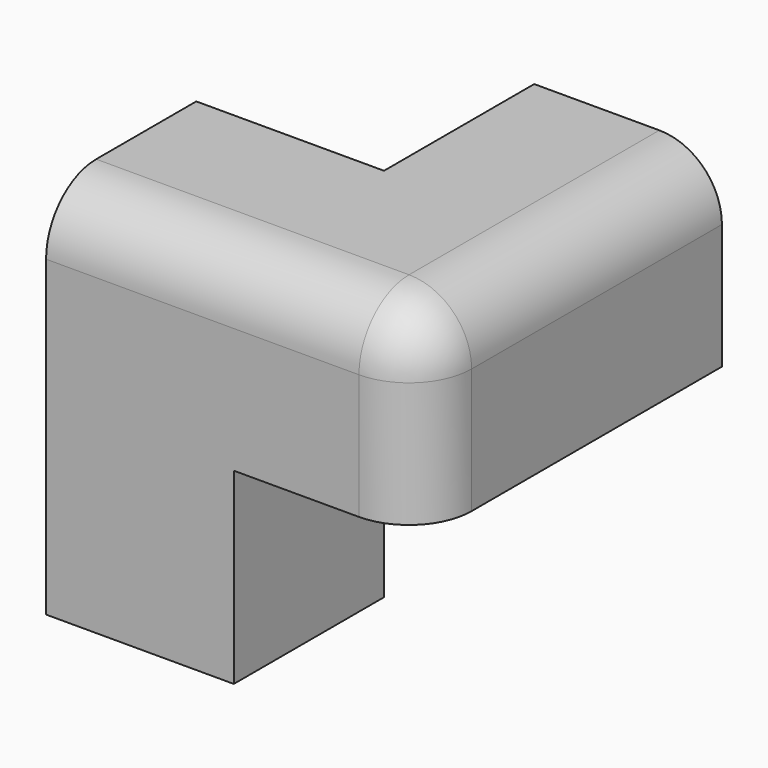
from build123d import *

# Parameters (mm, degrees)
F1_DEPTH = 38.1
F2_W     = 19.05
F2_H     = 19.05
F3_DEPTH = 38.101
F4_R     = 6.35
F5_R     = 6.35


with BuildPart() as f1:
    # F0 (on Front) → F1 (new body)
    with BuildSketch(Plane.XZ):
        Polygon((0, 35.814), (0, -2.286), (19.05, -2.286), (19.05, 16.764), (38.1, 16.764), (38.1, 35.814), align=None)
    extrude(amount=F1_DEPTH)

    # F2 (on face) → F3 (cut, through all)
    with BuildSketch(Plane.XY.offset(35.814)):
        with Locations((9.525, -9.525)):
            Rectangle(F2_W, F2_H)
    extrude(amount=-F3_DEPTH, mode=Mode.SUBTRACT)

    # F4
    f4_edges = [f1.edges().sort_by_distance(p)[0] for p in [
        (19.05, -38.1, 35.814),
    ]]
    fillet(f4_edges, radius=F4_R)

    # F5
    f5_edges = [f1.edges().sort_by_distance(p)[0] for p in [
        (38.1, -15.875, 35.814),
    ]]
    fillet(f5_edges, radius=F5_R)


solid = f1.part
